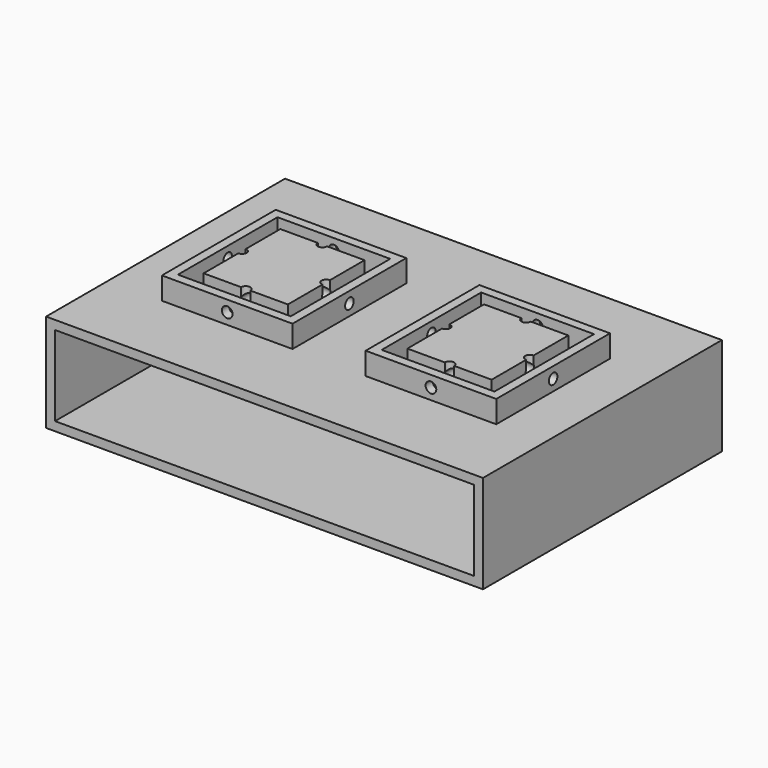
from build123d import *

# Parameters (mm, degrees)
F0_W      = 98
F0_H      = 67
F0_W_2    = 94
F0_H_2    = 63
F1_DEPTH  = 22
F0_R      = 2
F2_DEPTH  = 2
F3_DEPTH  = 5
F4_W      = 94
F4_H      = 20
F5_DEPTH  = 2
F6_W      = 94
F6_H      = 2
F7_DEPTH  = 65
F8_W      = 24.9
F8_H      = 27.5
F9_DEPTH  = 5
F10_W     = 29.3
F10_H     = 31.9
F10_W_2   = 25.3
F10_H_2   = 27.9
F11_DEPTH = 5
F13_D     = 2.4
F15_D     = 2.4
F17_D     = 2.4
F19_D     = 2.4
F21_D     = 2.4
F23_D     = 2.4


with BuildPart() as f1:
    # F0 (on Top) → F1 (new body)
    with BuildSketch(Plane.XY):
        with Locations((6.6535634696, -0.4620661276)):
            Rectangle(F0_W, F0_H)
        with Locations((6.6535634696, -0.4620661276)):
            Rectangle(F0_W_2, F0_H_2, mode=Mode.SUBTRACT)
    extrude(amount=F1_DEPTH)

    # F0 (on Top) → F2 (join)
    with BuildSketch(Plane.XY):
        with Locations((6.6535634696, -0.4620661276)):
            Rectangle(F0_W_2, F0_H_2)
        with Locations((-33.3464365304, 24.0379338724)):
            Circle(F0_R, mode=Mode.SUBTRACT)
        with Locations((46.6535634696, 24.0379338724)):
            Circle(F0_R, mode=Mode.SUBTRACT)
    extrude(amount=F2_DEPTH)

    # F0 (on Top) → F3 (join)
    with BuildSketch(Plane.XY):
        with Locations((-33.3464365304, 24.0379338724)):
            Circle(F0_R)
        with Locations((46.6535634696, 24.0379338724)):
            Circle(F0_R)
    extrude(amount=F3_DEPTH)

    # F4 (on face) → F5 (cut, through all)
    with BuildSketch(Plane.XZ.offset(33.9620661276)):
        with Locations((6.6535634696, 12)):
            Rectangle(F4_W, F4_H)
    extrude(amount=-F5_DEPTH, mode=Mode.SUBTRACT)

    # F6 (on face) → F7 (join)
    with BuildSketch(Plane.XZ.offset(-31.0379338724)):
        with Locations((6.6535634696, 21)):
            Rectangle(F6_W, F6_H)
    extrude(amount=F7_DEPTH)

    # F8 (on face) → F9 (join)
    with BuildSketch(Plane(origin=(0, 0, 0), x_dir=(1, 0, 0), z_dir=(0, 0, -1))):
        with Locations((-15.7964365304, 0.4620661276)):
            Rectangle(F8_W, F8_H)
        with BuildLine():
            ThreePointArc((-16.7964365304, 11.2120661276), (-15.7964365304, 12.2120661276), (-14.7964365304, 11.2120661276))
            Line((-14.7964365304, 11.2120661276), (-6.3464365304, 11.2120661276))
            Line((-6.3464365304, 11.2120661276), (-6.3464365304, 1.4620661276))
            ThreePointArc((-6.3464365304, 1.4620661276), (-5.6393297492, 1.1691729088), (-5.3464365304, 0.4620661276))
            ThreePointArc((-5.3464365304, 0.4620661276), (-5.6393297492, -0.2450406536), (-6.3464365304, -0.5379338724))
            Line((-6.3464365304, -0.5379338724), (-6.3464365304, -10.2879338724))
            Line((-6.3464365304, -10.2879338724), (-14.7964365304, -10.2879338724))
            ThreePointArc((-14.7964365304, -10.2879338724), (-15.7964365304, -11.2879338724), (-16.7964365304, -10.2879338724))
            Line((-16.7964365304, -10.2879338724), (-25.2464365304, -10.2879338724))
            Line((-25.2464365304, -10.2879338724), (-25.2464365304, -0.5379338724))
            ThreePointArc((-25.2464365304, -0.5379338724), (-26.2464365304, 0.4620661276), (-25.2464365304, 1.4620661276))
            Line((-25.2464365304, 1.4620661276), (-25.2464365304, 11.2120661276))
            Line((-25.2464365304, 11.2120661276), (-16.7964365304, 11.2120661276))
        make_face(mode=Mode.SUBTRACT)
        with Locations((29.1035634696, 0.4620661276)):
            Rectangle(F8_W, F8_H)
        with BuildLine():
            ThreePointArc((28.1035634696, 11.2120661276), (29.1035634696, 12.2120661276), (30.1035634696, 11.2120661276))
            Line((30.1035634696, 11.2120661276), (38.5535634696, 11.2120661276))
            Line((38.5535634696, 11.2120661276), (38.5535634696, 1.4620661276))
            ThreePointArc((38.5535634696, 1.4620661276), (39.2606702508, 1.1691729088), (39.5535634696, 0.4620661276))
            ThreePointArc((39.5535634696, 0.4620661276), (39.2606702508, -0.2450406536), (38.5535634696, -0.5379338724))
            Line((38.5535634696, -0.5379338724), (38.5535634696, -10.2879338724))
            Line((38.5535634696, -10.2879338724), (30.1035634696, -10.2879338724))
            ThreePointArc((30.1035634696, -10.2879338724), (29.1035634696, -11.2879338724), (28.1035634696, -10.2879338724))
            Line((28.1035634696, -10.2879338724), (19.6535634696, -10.2879338724))
            Line((19.6535634696, -10.2879338724), (19.6535634696, -0.5379338724))
            ThreePointArc((19.6535634696, -0.5379338724), (18.6535634696, 0.4620661276), (19.6535634696, 1.4620661276))
            Line((19.6535634696, 1.4620661276), (19.6535634696, 11.2120661276))
            Line((19.6535634696, 11.2120661276), (28.1035634696, 11.2120661276))
        make_face(mode=Mode.SUBTRACT)
        with BuildLine():
            Line((-25.2464365304, -0.5379338724), (-25.2464365304, 1.4620661276))
            ThreePointArc((-25.2464365304, 1.4620661276), (-26.2464365304, 0.4620661276), (-25.2464365304, -0.5379338724))
        make_face()
        with BuildLine():
            ThreePointArc((-24.2464365304, 0.4620661276), (-24.5393297492, 1.1691729088), (-25.2464365304, 1.4620661276))
            Line((-25.2464365304, 1.4620661276), (-25.2464365304, -0.5379338724))
            ThreePointArc((-25.2464365304, -0.5379338724), (-24.5393297492, -0.2450406536), (-24.2464365304, 0.4620661276))
        make_face()
        with BuildLine():
            Line((-16.7964365304, -10.2879338724), (-14.7964365304, -10.2879338724))
            ThreePointArc((-14.7964365304, -10.2879338724), (-15.7964365304, -9.2879338724), (-16.7964365304, -10.2879338724))
        make_face()
        with BuildLine():
            ThreePointArc((-16.7964365304, -10.2879338724), (-15.7964365304, -11.2879338724), (-14.7964365304, -10.2879338724))
            Line((-14.7964365304, -10.2879338724), (-16.7964365304, -10.2879338724))
        make_face()
        with BuildLine():
            Line((-6.3464365304, -0.5379338724), (-6.3464365304, 1.4620661276))
            ThreePointArc((-6.3464365304, 1.4620661276), (-7.3464365304, 0.4620661276), (-6.3464365304, -0.5379338724))
        make_face()
        with BuildLine():
            ThreePointArc((-5.3464365304, 0.4620661276), (-5.6393297492, 1.1691729088), (-6.3464365304, 1.4620661276))
            Line((-6.3464365304, 1.4620661276), (-6.3464365304, -0.5379338724))
            ThreePointArc((-6.3464365304, -0.5379338724), (-5.6393297492, -0.2450406536), (-5.3464365304, 0.4620661276))
        make_face()
        with BuildLine():
            Line((-16.7964365304, 11.2120661276), (-14.7964365304, 11.2120661276))
            ThreePointArc((-14.7964365304, 11.2120661276), (-15.7964365304, 12.2120661276), (-16.7964365304, 11.2120661276))
        make_face()
        with BuildLine():
            ThreePointArc((-16.7964365304, 11.2120661276), (-15.7964365304, 10.2120661276), (-14.7964365304, 11.2120661276))
            Line((-14.7964365304, 11.2120661276), (-16.7964365304, 11.2120661276))
        make_face()
        with BuildLine():
            Line((19.6535634696, -0.5379338724), (19.6535634696, 1.4620661276))
            ThreePointArc((19.6535634696, 1.4620661276), (18.6535634696, 0.4620661276), (19.6535634696, -0.5379338724))
        make_face()
        with BuildLine():
            ThreePointArc((20.6535634696, 0.4620661276), (20.3606702508, 1.1691729088), (19.6535634696, 1.4620661276))
            Line((19.6535634696, 1.4620661276), (19.6535634696, -0.5379338724))
            ThreePointArc((19.6535634696, -0.5379338724), (20.3606702508, -0.2450406536), (20.6535634696, 0.4620661276))
        make_face()
        with BuildLine():
            Line((28.1035634696, -10.2879338724), (30.1035634696, -10.2879338724))
            ThreePointArc((30.1035634696, -10.2879338724), (29.1035634696, -9.2879338724), (28.1035634696, -10.2879338724))
        make_face()
        with BuildLine():
            ThreePointArc((28.1035634696, -10.2879338724), (29.1035634696, -11.2879338724), (30.1035634696, -10.2879338724))
            Line((30.1035634696, -10.2879338724), (28.1035634696, -10.2879338724))
        make_face()
        with BuildLine():
            Line((38.5535634696, -0.5379338724), (38.5535634696, 1.4620661276))
            ThreePointArc((38.5535634696, 1.4620661276), (37.5535634696, 0.4620661276), (38.5535634696, -0.5379338724))
        make_face()
        with BuildLine():
            ThreePointArc((39.5535634696, 0.4620661276), (39.2606702508, 1.1691729088), (38.5535634696, 1.4620661276))
            Line((38.5535634696, 1.4620661276), (38.5535634696, -0.5379338724))
            ThreePointArc((38.5535634696, -0.5379338724), (39.2606702508, -0.2450406536), (39.5535634696, 0.4620661276))
        make_face()
        with BuildLine():
            Line((28.1035634696, 11.2120661276), (30.1035634696, 11.2120661276))
            ThreePointArc((30.1035634696, 11.2120661276), (29.1035634696, 12.2120661276), (28.1035634696, 11.2120661276))
        make_face()
        with BuildLine():
            ThreePointArc((28.1035634696, 11.2120661276), (29.1035634696, 10.2120661276), (30.1035634696, 11.2120661276))
            Line((30.1035634696, 11.2120661276), (28.1035634696, 11.2120661276))
        make_face()
    extrude(amount=F9_DEPTH)

    # F10 (on face) → F11 (join)
    with BuildSketch(Plane.XY.offset(22)):
        with Locations((-15.5964365304, -0.6620661276)):
            Rectangle(F10_W, F10_H)
        with Locations((-15.5964365304, -0.6620661276)):
            Rectangle(F10_W_2, F10_H_2, mode=Mode.SUBTRACT)
        with Locations((30.1035634696, -0.6620661276)):
            Rectangle(F10_W, F10_H)
        with Locations((30.1035634696, -0.6620661276)):
            Rectangle(F10_W_2, F10_H_2, mode=Mode.SUBTRACT)
        with BuildLine():
            Line((-6.1464365304, 10.0879338724), (-14.5464365304, 10.0879338724))
            ThreePointArc((-14.5464365304, 10.0879338724), (-15.5964365304, 9.0379338724), (-16.6464365304, 10.0879338724))
            Line((-16.6464365304, 10.0879338724), (-25.0464365304, 10.0879338724))
            Line((-25.0464365304, 10.0879338724), (-25.0464365304, 0.3879338724))
            ThreePointArc((-25.0464365304, 0.3879338724), (-24.3039744101, 0.0803959926), (-23.9964365304, -0.6620661276))
            ThreePointArc((-23.9964365304, -0.6620661276), (-24.3039744101, -1.4045282478), (-25.0464365304, -1.7120661276))
            Line((-25.0464365304, -1.7120661276), (-25.0464365304, -11.4120661276))
            Line((-25.0464365304, -11.4120661276), (-16.6464365304, -11.4120661276))
            ThreePointArc((-16.6464365304, -11.4120661276), (-15.5964365304, -10.3620661276), (-14.5464365304, -11.4120661276))
            Line((-14.5464365304, -11.4120661276), (-6.1464365304, -11.4120661276))
            Line((-6.1464365304, -11.4120661276), (-6.1464365304, -1.7120661276))
            ThreePointArc((-6.1464365304, -1.7120661276), (-7.1964365304, -0.6620661276), (-6.1464365304, 0.3879338724))
            Line((-6.1464365304, 0.3879338724), (-6.1464365304, 10.0879338724))
        make_face()
        with BuildLine():
            Line((39.5535634696, 10.0879338724), (31.1535634696, 10.0879338724))
            ThreePointArc((31.1535634696, 10.0879338724), (30.1035634696, 9.0379338724), (29.0535634696, 10.0879338724))
            Line((29.0535634696, 10.0879338724), (20.6535634696, 10.0879338724))
            Line((20.6535634696, 10.0879338724), (20.6535634696, 0.3879338724))
            ThreePointArc((20.6535634696, 0.3879338724), (21.3960255899, 0.0803959926), (21.7035634696, -0.6620661276))
            ThreePointArc((21.7035634696, -0.6620661276), (21.3960255899, -1.4045282478), (20.6535634696, -1.7120661276))
            Line((20.6535634696, -1.7120661276), (20.6535634696, -11.4120661276))
            Line((20.6535634696, -11.4120661276), (29.0535634696, -11.4120661276))
            ThreePointArc((29.0535634696, -11.4120661276), (30.1035634696, -10.3620661276), (31.1535634696, -11.4120661276))
            Line((31.1535634696, -11.4120661276), (39.5535634696, -11.4120661276))
            Line((39.5535634696, -11.4120661276), (39.5535634696, -1.7120661276))
            ThreePointArc((39.5535634696, -1.7120661276), (38.5035634696, -0.6620661276), (39.5535634696, 0.3879338724))
            Line((39.5535634696, 0.3879338724), (39.5535634696, 10.0879338724))
        make_face()
    extrude(amount=F11_DEPTH)

    # F13 (through all)
    with Locations(Plane(origin=(-30.2464365304, 0, 0), x_dir=(0, -1, 0), z_dir=(-1, 0, 0))):
        with Locations((0.6620661276, 24.5)):
            Hole(F13_D / 2)

    # F15 (through all)
    with Locations(Plane(origin=(-28.2464365304, 0, 0), x_dir=(0, -1, 0), z_dir=(-1, 0, 0))):
        with Locations((0.4620661276, -2.5)):
            Hole(F15_D / 2)

    # F17 (through all)
    with Locations(Plane.XZ.offset(14.2120661276)):
        with Locations((29.1035634696, -2.5)):
            Hole(F17_D / 2)

    # F19 (through all)
    with Locations(Plane.XZ.offset(14.2120661276)):
        with Locations((-15.7964365304, -2.5)):
            Hole(F19_D / 2)

    # F21 (through all)
    with Locations(Plane.XZ.offset(16.6120661276)):
        with Locations((-15.5964365304, 24.5)):
            Hole(F21_D / 2)

    # F23 (through all)
    with Locations(Plane.XZ.offset(16.6120661276)):
        with Locations((30.1035634696, 24.5)):
            Hole(F23_D / 2)


solid = f1.part
